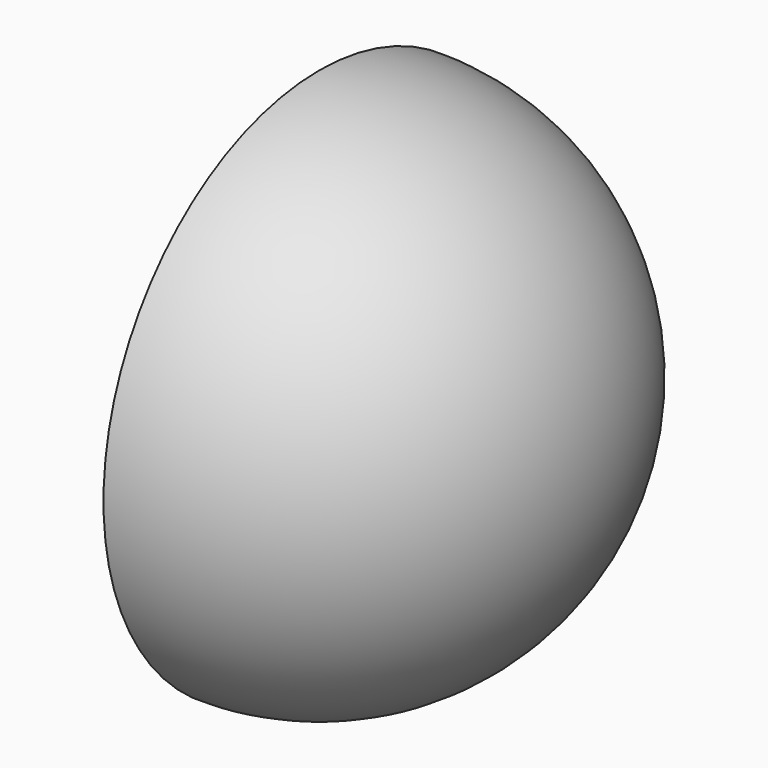
from build123d import *

# Parameters (mm, degrees)
F1_ANGLE_BACK = 90
F1_ANGLE      = 180
F2_T          = -2.54


with BuildPart() as f1:
    # F0 (on Front) → F1 (revolve)
    with BuildSketch(Plane.XZ, mode=Mode.PRIVATE) as f1_sk:
        with BuildLine():
            Line((0, 0), (0, -19.05))
            ThreePointArc((0, -19.05), (19.05, 0), (0, 19.05))
            Line((0, 19.05), (0, 0))
        make_face()
    revolve(f1_sk.sketch.rotate(Axis((0, 0, 22.1610423177), (0, 0, -1)), -F1_ANGLE_BACK), axis=Axis((0, 0, 22.1610423177), (0, 0, -1)), revolution_arc=F1_ANGLE)

    # F2
    f2_openings = [f1.faces().sort_by_distance(p)[0] for p in [
        (0, 0, 0),
    ]]
    offset(amount=F2_T, openings=f2_openings)


solid = f1.part
